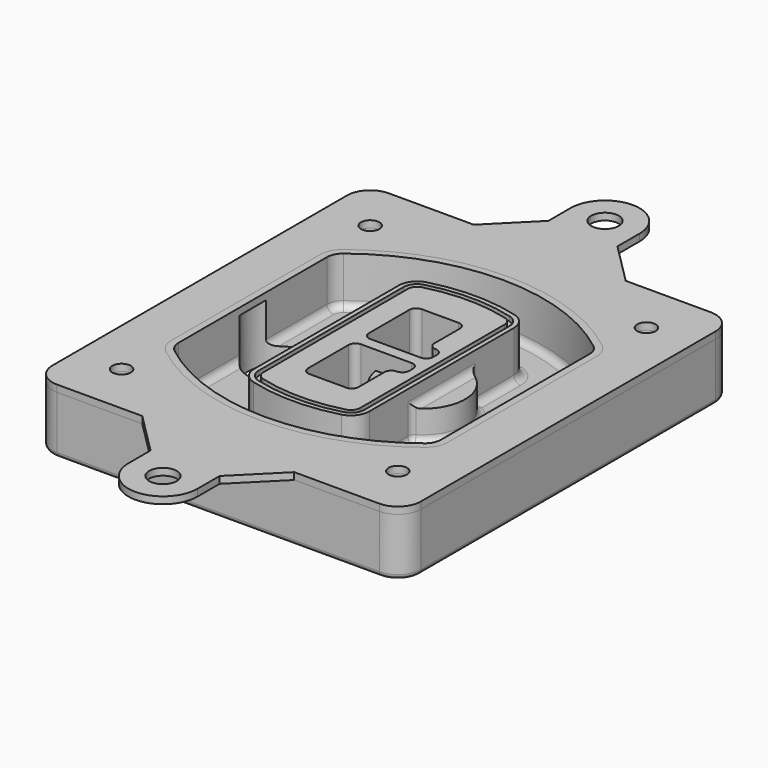
from build123d import *

# Parameters (mm, degrees)
F0_R      = 4
F1_DEPTH  = 25
F2_DEPTH  = 3
F3_DEPTH  = 18
F5_DEPTH  = 21
F6_DEPTH  = 2
F8_DEPTH  = 20
F9_DEPTH  = 16
F11_DEPTH = 9
F12_DEPTH = 25
F13_R     = 3
F14_R     = 2
F15_R     = 6
F15_R_2   = 4
F16_DEPTH = 3


with BuildPart() as f1:
    # F0 (on Top) → F1 (new body)
    with BuildSketch(Plane.XY):
        with BuildLine():
            ThreePointArc((-80, -80), (-77.0710678119, -87.0710678119), (-70, -90))
            Line((-70, -90), (70, -90))
            ThreePointArc((70, -90), (77.0710678119, -87.0710678119), (80, -80))
            Line((80, -80), (80, 80))
            ThreePointArc((80, 80), (77.0710678119, 87.0710678119), (70, 90))
            Line((70, 90), (-70, 90))
            ThreePointArc((-70, 90), (-77.0710678119, 87.0710678119), (-80, 80))
            Line((-80, 80), (-80, -80))
        make_face()
        with Locations((-60, -67.5)):
            Circle(F0_R, mode=Mode.SUBTRACT)
        with Locations((60, -67.5)):
            Circle(F0_R, mode=Mode.SUBTRACT)
        with Locations((-60, 67.5)):
            Circle(F0_R, mode=Mode.SUBTRACT)
        with BuildLine():
            ThreePointArc((-64, 40.2934422872), (-62.5820384798, 46.4328484224), (-58.6153846154, 51.3286200352))
            ThreePointArc((-58.6153846154, 51.3286200352), (0, 71.5), (58.6153846154, 51.3286200352))
            ThreePointArc((58.6153846154, 51.3286200352), (62.5820384798, 46.4328484224), (64, 40.2934422872))
            Line((64, 40.2934422872), (64, -40.2934422872))
            ThreePointArc((64, -40.2934422872), (62.5820384798, -46.4328484224), (58.6153846154, -51.3286200352))
            ThreePointArc((58.6153846154, -51.3286200352), (0, -71.5), (-58.6153846154, -51.3286200352))
            ThreePointArc((-58.6153846154, -51.3286200352), (-62.5820384798, -46.4328484224), (-64, -40.2934422872))
            Line((-64, -40.2934422872), (-64, 40.2934422872))
        make_face(mode=Mode.SUBTRACT)
        with Locations((60, 67.5)):
            Circle(F0_R, mode=Mode.SUBTRACT)
        with BuildLine():
            ThreePointArc((58.6153846154, 51.3286200352), (0, 71.5), (-58.6153846154, 51.3286200352))
            ThreePointArc((-58.6153846154, 51.3286200352), (-62.5820384798, 46.4328484224), (-64, 40.2934422872))
            Line((-64, 40.2934422872), (-64, -40.2934422872))
            ThreePointArc((-64, -40.2934422872), (-62.5820384798, -46.4328484224), (-58.6153846154, -51.3286200352))
            ThreePointArc((-58.6153846154, -51.3286200352), (0, -71.5), (58.6153846154, -51.3286200352))
            ThreePointArc((58.6153846154, -51.3286200352), (62.5820384798, -46.4328484224), (64, -40.2934422872))
            Line((64, -40.2934422872), (64, 40.2934422872))
            ThreePointArc((64, 40.2934422872), (62.5820384798, 46.4328484224), (58.6153846154, 51.3286200352))
        make_face()
        with BuildLine():
            Line((-60, -40.2934422872), (-60, 40.2934422872))
            ThreePointArc((-60, 40.2934422872), (-58.9871703427, 44.6787323838), (-56.1538461538, 48.1757121072))
            ThreePointArc((-56.1538461538, 48.1757121072), (0, 67.5), (56.1538461538, 48.1757121072))
            ThreePointArc((56.1538461538, 48.1757121072), (58.9871703427, 44.6787323838), (60, 40.2934422872))
            Line((60, 40.2934422872), (60, -40.2934422872))
            ThreePointArc((60, -40.2934422872), (58.9871703427, -44.6787323838), (56.1538461538, -48.1757121072))
            ThreePointArc((56.1538461538, -48.1757121072), (0, -67.5), (-56.1538461538, -48.1757121072))
            ThreePointArc((-56.1538461538, -48.1757121072), (-58.9871703427, -44.6787323838), (-60, -40.2934422872))
        make_face(mode=Mode.SUBTRACT)
        with BuildLine():
            ThreePointArc((-56.1538461538, 48.1757121072), (-58.9871703427, 44.6787323838), (-60, 40.2934422872))
            Line((-60, 40.2934422872), (-60, -40.2934422872))
            ThreePointArc((-60, -40.2934422872), (-58.9871703427, -44.6787323838), (-56.1538461538, -48.1757121072))
            ThreePointArc((-56.1538461538, -48.1757121072), (0, -67.5), (56.1538461538, -48.1757121072))
            ThreePointArc((56.1538461538, -48.1757121072), (58.9871703427, -44.6787323838), (60, -40.2934422872))
            Line((60, -40.2934422872), (60, 40.2934422872))
            ThreePointArc((60, 40.2934422872), (58.9871703427, 44.6787323838), (56.1538461538, 48.1757121072))
            ThreePointArc((56.1538461538, 48.1757121072), (0, 67.5), (-56.1538461538, 48.1757121072))
        make_face()
        with BuildLine():
            ThreePointArc((54.3076923077, 45.8110311612), (56.2910192399, 43.3631453548), (57, 40.2934422872))
            Line((57, 40.2934422872), (57, -40.2934422872))
            ThreePointArc((57, -40.2934422872), (56.2910192399, -43.3631453548), (54.3076923077, -45.8110311612))
            ThreePointArc((54.3076923077, -45.8110311612), (0, -64.5), (-54.3076923077, -45.8110311612))
            ThreePointArc((-54.3076923077, -45.8110311612), (-56.2910192399, -43.3631453548), (-57, -40.2934422872))
            Line((-57, -40.2934422872), (-57, 40.2934422872))
            ThreePointArc((-57, 40.2934422872), (-56.2910192399, 43.3631453548), (-54.3076923077, 45.8110311612))
            ThreePointArc((-54.3076923077, 45.8110311612), (0, 64.5), (54.3076923077, 45.8110311612))
        make_face(mode=Mode.SUBTRACT)
        with BuildLine():
            Line((57, -40.2934422872), (57, 40.2934422872))
            ThreePointArc((57, 40.2934422872), (56.2910192399, 43.3631453548), (54.3076923077, 45.8110311612))
            ThreePointArc((54.3076923077, 45.8110311612), (0, 64.5), (-54.3076923077, 45.8110311612))
            ThreePointArc((-54.3076923077, 45.8110311612), (-56.2910192399, 43.3631453548), (-57, 40.2934422872))
            Line((-57, 40.2934422872), (-57, -40.2934422872))
            ThreePointArc((-57, -40.2934422872), (-56.2910192399, -43.3631453548), (-54.3076923077, -45.8110311612))
            ThreePointArc((-54.3076923077, -45.8110311612), (0, -64.5), (54.3076923077, -45.8110311612))
            ThreePointArc((54.3076923077, -45.8110311612), (56.2910192399, -43.3631453548), (57, -40.2934422872))
        make_face()
    extrude(amount=-F1_DEPTH)

    # F0 (on Top) → F2 (join)
    with BuildSketch(Plane.XY):
        with BuildLine():
            ThreePointArc((-56.1538461538, 48.1757121072), (-58.9871703427, 44.6787323838), (-60, 40.2934422872))
            Line((-60, 40.2934422872), (-60, -40.2934422872))
            ThreePointArc((-60, -40.2934422872), (-58.9871703427, -44.6787323838), (-56.1538461538, -48.1757121072))
            ThreePointArc((-56.1538461538, -48.1757121072), (0, -67.5), (56.1538461538, -48.1757121072))
            ThreePointArc((56.1538461538, -48.1757121072), (58.9871703427, -44.6787323838), (60, -40.2934422872))
            Line((60, -40.2934422872), (60, 40.2934422872))
            ThreePointArc((60, 40.2934422872), (58.9871703427, 44.6787323838), (56.1538461538, 48.1757121072))
            ThreePointArc((56.1538461538, 48.1757121072), (0, 67.5), (-56.1538461538, 48.1757121072))
        make_face()
        with BuildLine():
            ThreePointArc((54.3076923077, 45.8110311612), (56.2910192399, 43.3631453548), (57, 40.2934422872))
            Line((57, 40.2934422872), (57, -40.2934422872))
            ThreePointArc((57, -40.2934422872), (56.2910192399, -43.3631453548), (54.3076923077, -45.8110311612))
            ThreePointArc((54.3076923077, -45.8110311612), (0, -64.5), (-54.3076923077, -45.8110311612))
            ThreePointArc((-54.3076923077, -45.8110311612), (-56.2910192399, -43.3631453548), (-57, -40.2934422872))
            Line((-57, -40.2934422872), (-57, 40.2934422872))
            ThreePointArc((-57, 40.2934422872), (-56.2910192399, 43.3631453548), (-54.3076923077, 45.8110311612))
            ThreePointArc((-54.3076923077, 45.8110311612), (0, 64.5), (54.3076923077, 45.8110311612))
        make_face(mode=Mode.SUBTRACT)
    extrude(amount=F2_DEPTH)

    # F0 (on Top) → F3 (cut)
    with BuildSketch(Plane.XY):
        with BuildLine():
            Line((57, -40.2934422872), (57, 40.2934422872))
            ThreePointArc((57, 40.2934422872), (56.2910192399, 43.3631453548), (54.3076923077, 45.8110311612))
            ThreePointArc((54.3076923077, 45.8110311612), (0, 64.5), (-54.3076923077, 45.8110311612))
            ThreePointArc((-54.3076923077, 45.8110311612), (-56.2910192399, 43.3631453548), (-57, 40.2934422872))
            Line((-57, 40.2934422872), (-57, -40.2934422872))
            ThreePointArc((-57, -40.2934422872), (-56.2910192399, -43.3631453548), (-54.3076923077, -45.8110311612))
            ThreePointArc((-54.3076923077, -45.8110311612), (0, -64.5), (54.3076923077, -45.8110311612))
            ThreePointArc((54.3076923077, -45.8110311612), (56.2910192399, -43.3631453548), (57, -40.2934422872))
        make_face()
    extrude(amount=-F3_DEPTH, mode=Mode.SUBTRACT)

    # F4 (on face) → F5 (join, through all)
    with BuildSketch(Plane.XY.offset(3)):
        with BuildLine():
            ThreePointArc((-25, -39.2465276821), (-23.3511545998, -44.1109737193), (-19.0842911877, -46.9702398883))
            ThreePointArc((-19.0842911877, -46.9702398883), (0, -49.5), (19.0842911877, -46.9702398883))
            ThreePointArc((19.0842911877, -46.9702398883), (23.3511545998, -44.1109737193), (25, -39.2465276821))
            Line((25, -39.2465276821), (25, 39.2465276821))
            ThreePointArc((25, 39.2465276821), (23.3511545998, 44.1109737193), (19.0842911877, 46.9702398883))
            ThreePointArc((19.0842911877, 46.9702398883), (0, 49.5), (-19.0842911877, 46.9702398883))
            ThreePointArc((-19.0842911877, 46.9702398883), (-23.3511545998, 44.1109737193), (-25, 39.2465276821))
            Line((-25, 39.2465276821), (-25, -39.2465276821))
        make_face()
        with BuildLine():
            ThreePointArc((18.5632183908, 45.0393118368), (21.7633659499, 42.89486221), (23, 39.2465276821))
            Line((23, 39.2465276821), (23, -39.2465276821))
            ThreePointArc((23, -39.2465276821), (21.7633659499, -42.89486221), (18.5632183908, -45.0393118368))
            ThreePointArc((18.5632183908, -45.0393118368), (0, -47.5), (-18.5632183908, -45.0393118368))
            ThreePointArc((-18.5632183908, -45.0393118368), (-21.7633659499, -42.89486221), (-23, -39.2465276821))
            Line((-23, -39.2465276821), (-23, 39.2465276821))
            ThreePointArc((-23, 39.2465276821), (-21.7633659499, 42.89486221), (-18.5632183908, 45.0393118368))
            ThreePointArc((-18.5632183908, 45.0393118368), (0, 47.5), (18.5632183908, 45.0393118368))
        make_face(mode=Mode.SUBTRACT)
        with BuildLine():
            Line((23, -39.2465276821), (23, 39.2465276821))
            ThreePointArc((23, 39.2465276821), (21.7633659499, 42.89486221), (18.5632183908, 45.0393118368))
            ThreePointArc((18.5632183908, 45.0393118368), (0, 47.5), (-18.5632183908, 45.0393118368))
            ThreePointArc((-18.5632183908, 45.0393118368), (-21.7633659499, 42.89486221), (-23, 39.2465276821))
            Line((-23, 39.2465276821), (-23, -39.2465276821))
            ThreePointArc((-23, -39.2465276821), (-21.7633659499, -42.89486221), (-18.5632183908, -45.0393118368))
            ThreePointArc((-18.5632183908, -45.0393118368), (0, -47.5), (18.5632183908, -45.0393118368))
            ThreePointArc((18.5632183908, -45.0393118368), (21.7633659499, -42.89486221), (23, -39.2465276821))
        make_face()
        with BuildLine():
            ThreePointArc((18.0421455939, 43.1083837852), (20.1755772999, 41.6787507007), (21, 39.2465276821))
            Line((21, 39.2465276821), (21, -39.2465276821))
            ThreePointArc((21, -39.2465276821), (20.1755772999, -41.6787507007), (18.0421455939, -43.1083837852))
            ThreePointArc((18.0421455939, -43.1083837852), (0, -45.5), (-18.0421455939, -43.1083837852))
            ThreePointArc((-18.0421455939, -43.1083837852), (-20.1755772999, -41.6787507007), (-21, -39.2465276821))
            Line((-21, -39.2465276821), (-21, 39.2465276821))
            ThreePointArc((-21, 39.2465276821), (-20.1755772999, 41.6787507007), (-18.0421455939, 43.1083837852))
            ThreePointArc((-18.0421455939, 43.1083837852), (0, 45.5), (18.0421455939, 43.1083837852))
        make_face(mode=Mode.SUBTRACT)
        with BuildLine():
            Line((21, -39.2465276821), (21, 39.2465276821))
            ThreePointArc((21, 39.2465276821), (20.1755772999, 41.6787507007), (18.0421455939, 43.1083837852))
            ThreePointArc((18.0421455939, 43.1083837852), (0, 45.5), (-18.0421455939, 43.1083837852))
            ThreePointArc((-18.0421455939, 43.1083837852), (-20.1755772999, 41.6787507007), (-21, 39.2465276821))
            Line((-21, 39.2465276821), (-21, -39.2465276821))
            ThreePointArc((-21, -39.2465276821), (-20.1755772999, -41.6787507007), (-18.0421455939, -43.1083837852))
            ThreePointArc((-18.0421455939, -43.1083837852), (0, -45.5), (18.0421455939, -43.1083837852))
            ThreePointArc((18.0421455939, -43.1083837852), (20.1755772999, -41.6787507007), (21, -39.2465276821))
        make_face()
        with BuildLine():
            Line((-8, -2.5), (14, -2.5))
            ThreePointArc((14, -2.5), (16.1213203436, -3.3786796564), (17, -5.5))
            Line((17, -5.5), (17, -7.5))
            ThreePointArc((17, -7.5), (16.1213203436, -9.6213203436), (14, -10.5))
            ThreePointArc((14, -10.5), (11.8786796564, -11.3786796564), (11, -13.5))
            Line((11, -13.5), (11, -27.5))
            ThreePointArc((11, -27.5), (10.1213203436, -29.6213203436), (8, -30.5))
            Line((8, -30.5), (-8, -30.5))
            ThreePointArc((-8, -30.5), (-10.1213203436, -29.6213203436), (-11, -27.5))
            Line((-11, -27.5), (-11, -5.5))
            ThreePointArc((-11, -5.5), (-10.1213203436, -3.3786796564), (-8, -2.5))
        make_face(mode=Mode.SUBTRACT)
        with BuildLine():
            ThreePointArc((-8, 2.5), (-10.1213203436, 3.3786796564), (-11, 5.5))
            Line((-11, 5.5), (-11, 27.5))
            ThreePointArc((-11, 27.5), (-10.1213203436, 29.6213203436), (-8, 30.5))
            Line((-8, 30.5), (8, 30.5))
            ThreePointArc((8, 30.5), (10.1213203436, 29.6213203436), (11, 27.5))
            Line((11, 27.5), (11, 13.5))
            ThreePointArc((11, 13.5), (11.8786796564, 11.3786796564), (14, 10.5))
            ThreePointArc((14, 10.5), (16.1213203436, 9.6213203436), (17, 7.5))
            Line((17, 7.5), (17, 5.5))
            ThreePointArc((17, 5.5), (16.1213203436, 3.3786796564), (14, 2.5))
            Line((14, 2.5), (-8, 2.5))
        make_face(mode=Mode.SUBTRACT)
    extrude(amount=-F5_DEPTH)

    # F4 (on face) → F6 (cut)
    with BuildSketch(Plane.XY.offset(3)):
        with BuildLine():
            Line((23, -39.2465276821), (23, 39.2465276821))
            ThreePointArc((23, 39.2465276821), (21.7633659499, 42.89486221), (18.5632183908, 45.0393118368))
            ThreePointArc((18.5632183908, 45.0393118368), (0, 47.5), (-18.5632183908, 45.0393118368))
            ThreePointArc((-18.5632183908, 45.0393118368), (-21.7633659499, 42.89486221), (-23, 39.2465276821))
            Line((-23, 39.2465276821), (-23, -39.2465276821))
            ThreePointArc((-23, -39.2465276821), (-21.7633659499, -42.89486221), (-18.5632183908, -45.0393118368))
            ThreePointArc((-18.5632183908, -45.0393118368), (0, -47.5), (18.5632183908, -45.0393118368))
            ThreePointArc((18.5632183908, -45.0393118368), (21.7633659499, -42.89486221), (23, -39.2465276821))
        make_face()
        with BuildLine():
            ThreePointArc((18.0421455939, 43.1083837852), (20.1755772999, 41.6787507007), (21, 39.2465276821))
            Line((21, 39.2465276821), (21, -39.2465276821))
            ThreePointArc((21, -39.2465276821), (20.1755772999, -41.6787507007), (18.0421455939, -43.1083837852))
            ThreePointArc((18.0421455939, -43.1083837852), (0, -45.5), (-18.0421455939, -43.1083837852))
            ThreePointArc((-18.0421455939, -43.1083837852), (-20.1755772999, -41.6787507007), (-21, -39.2465276821))
            Line((-21, -39.2465276821), (-21, 39.2465276821))
            ThreePointArc((-21, 39.2465276821), (-20.1755772999, 41.6787507007), (-18.0421455939, 43.1083837852))
            ThreePointArc((-18.0421455939, 43.1083837852), (0, 45.5), (18.0421455939, 43.1083837852))
        make_face(mode=Mode.SUBTRACT)
    extrude(amount=-F6_DEPTH, mode=Mode.SUBTRACT)

    # F7 (on face) → F8 (join)
    with BuildSketch(Plane(origin=(0, 0, -25), x_dir=(1, 0, 0), z_dir=(0, 0, -1))):
        with BuildLine():
            ThreePointArc((3.28842436, 0), (16.7567035675, 13.4682792075), (30.224982775, 0))
            Line((30.224982775, 0), (35.224982775, 0))
            ThreePointArc((35.224982775, 0), (16.7567035675, 18.4682792075), (-1.71157564, 0))
            Line((-1.71157564, 0), (3.28842436, 0))
        make_face()
        with BuildLine():
            Line((3.28842436, 0), (30.224982775, 0))
            ThreePointArc((30.224982775, 0), (16.7567035675, 13.4682792075), (3.28842436, 0))
        make_face()
        with BuildLine():
            ThreePointArc((3.28842436, 0), (16.7567035675, -13.4682792075), (30.224982775, 0))
            Line((30.224982775, 0), (3.28842436, 0))
        make_face()
        with BuildLine():
            Line((35.224982775, 0), (30.224982775, 0))
            ThreePointArc((30.224982775, 0), (16.7567035675, -13.4682792075), (3.28842436, 0))
            Line((3.28842436, 0), (-1.71157564, 0))
            ThreePointArc((-1.71157564, 0), (16.7567035675, -18.4682792075), (35.224982775, 0))
        make_face()
    extrude(amount=-F8_DEPTH)

    # F7 (on face) → F9 (cut)
    with BuildSketch(Plane(origin=(0, 0, -25), x_dir=(1, 0, 0), z_dir=(0, 0, -1))):
        with BuildLine():
            Line((3.28842436, 0), (30.224982775, 0))
            ThreePointArc((30.224982775, 0), (16.7567035675, 13.4682792075), (3.28842436, 0))
        make_face()
        with BuildLine():
            ThreePointArc((3.28842436, 0), (16.7567035675, -13.4682792075), (30.224982775, 0))
            Line((30.224982775, 0), (3.28842436, 0))
        make_face()
    extrude(amount=-F9_DEPTH, mode=Mode.SUBTRACT)

    # F10 (on face) → F11 (cut, through all)
    with BuildSketch(Plane(origin=(0, 0, -9), x_dir=(1, 0, 0), z_dir=(0, 0, -1))):
        with BuildLine():
            Line((11, 13.5), (11, 17.5481537753))
            ThreePointArc((11, 17.5481537753), (2.5696536419, 11.8239143813), (-1.5415842455, 2.5))
            Line((-1.5415842455, 2.5), (3.5224848595, 2.5))
            ThreePointArc((3.5224848595, 2.5), (6.1857188154, 8.3455872281), (11.2536447004, 12.2927168648))
            ThreePointArc((11.2536447004, 12.2927168648), (11.0640958889, 12.8831798879), (11, 13.5))
        make_face()
        with BuildLine():
            ThreePointArc((11.2536447004, -12.2927168648), (6.1857188154, -8.3455872281), (3.5224848595, -2.5))
            Line((3.5224848595, -2.5), (-1.5415842455, -2.5))
            ThreePointArc((-1.5415842455, -2.5), (2.5696536419, -11.8239143813), (11, -17.5481537753))
            Line((11, -17.5481537753), (11, -13.5))
            ThreePointArc((11, -13.5), (11.0640958889, -12.8831798879), (11.2536447004, -12.2927168648))
        make_face()
        with BuildLine():
            ThreePointArc((11.2536447004, 12.2927168648), (6.1857188154, 8.3455872281), (3.5224848595, 2.5))
            Line((3.5224848595, 2.5), (14, 2.5))
            ThreePointArc((14, 2.5), (16.1213203436, 3.3786796564), (17, 5.5))
            Line((17, 5.5), (17, 7.5))
            ThreePointArc((17, 7.5), (16.1213203436, 9.6213203436), (14, 10.5))
            ThreePointArc((14, 10.5), (12.3601599782, 10.9878446101), (11.2536447004, 12.2927168648))
        make_face()
        with BuildLine():
            Line((14, -2.5), (3.5224848595, -2.5))
            ThreePointArc((3.5224848595, -2.5), (6.1857188154, -8.3455872281), (11.2536447004, -12.2927168648))
            ThreePointArc((11.2536447004, -12.2927168648), (12.3601599782, -10.9878446101), (14, -10.5))
            ThreePointArc((14, -10.5), (16.1213203436, -9.6213203436), (17, -7.5))
            Line((17, -7.5), (17, -5.5))
            ThreePointArc((17, -5.5), (16.1213203436, -3.3786796564), (14, -2.5))
        make_face()
    extrude(amount=F11_DEPTH, mode=Mode.SUBTRACT)

    # F7 (on face) → F12 (cut)
    with BuildSketch(Plane(origin=(0, 0, -25), x_dir=(1, 0, 0), z_dir=(0, 0, -1))):
        with BuildLine():
            Line((-59.0318229325, 0), (-32.0952645175, 0))
            ThreePointArc((-32.0952645175, 0), (-45.563543725, 13.4682792075), (-59.0318229325, 0))
        make_face()
        with BuildLine():
            ThreePointArc((-59.0318229325, 0), (-45.563543725, -13.4682792075), (-32.0952645175, 0))
            Line((-32.0952645175, 0), (-59.0318229325, 0))
        make_face()
    extrude(amount=-F12_DEPTH, mode=Mode.SUBTRACT)

    # F13
    f13_edges = [f1.edges().sort_by_distance(p)[0] for p in [
        (-57, -23.703476, -18),
        (-57, 23.703476, -18),
        (25, 0, -5),
        (25, 16.526506, -11.5),
        (25, -16.526506, -11.5),
        (25, -27.886517, -18),
        (35.224983, 0, -18),
    ]]
    fillet(f13_edges, radius=F13_R)

    # F14
    f14_edges = [f1.edges().sort_by_distance(p)[0] for p in [
        (0, -90, -25),
    ]]
    fillet(f14_edges, radius=F14_R)


with BuildPart() as f16:
    # F15 (on face) → F16 (new body, through all)
    with BuildSketch(Plane.XY):
        with BuildLine():
            Line((-15, 108), (-33, 90))
            Line((-33, 90), (33, 90))
            Line((33, 90), (15, 108))
            Line((15, 108), (15, 120))
            ThreePointArc((15, 120), (0, 135), (-15, 120))
            Line((-15, 120), (-15, 108))
        make_face()
        with Locations((0, 120)):
            Circle(F15_R, mode=Mode.SUBTRACT)
        with BuildLine():
            Line((33, 90), (-33, 90))
            Line((-33, 90), (-70, 90))
            ThreePointArc((-70, 90), (-77.0710678119, 87.0710678119), (-80, 80))
            Line((-80, 80), (-80, -80))
            ThreePointArc((-80, -80), (-77.0710678119, -87.0710678119), (-70, -90))
            Line((-70, -90), (-33, -90))
            Line((-33, -90), (33, -90))
            Line((33, -90), (70, -90))
            ThreePointArc((70, -90), (77.0710678119, -87.0710678119), (80, -80))
            Line((80, -80), (80, 80))
            ThreePointArc((80, 80), (77.0710678119, 87.0710678119), (70, 90))
            Line((70, 90), (33, 90))
        make_face()
        with Locations((-60, -67.5)):
            Circle(F15_R_2, mode=Mode.SUBTRACT)
        with Locations((60, -67.5)):
            Circle(F15_R_2, mode=Mode.SUBTRACT)
        with Locations((-60, 67.5)):
            Circle(F15_R_2, mode=Mode.SUBTRACT)
        with BuildLine():
            ThreePointArc((-60, 40.2934422872), (-58.9871703427, 44.6787323838), (-56.1538461538, 48.1757121072))
            ThreePointArc((-56.1538461538, 48.1757121072), (0, 67.5), (56.1538461538, 48.1757121072))
            ThreePointArc((56.1538461538, 48.1757121072), (58.9871703427, 44.6787323838), (60, 40.2934422872))
            Line((60, 40.2934422872), (60, -40.2934422872))
            ThreePointArc((60, -40.2934422872), (58.9871703427, -44.6787323838), (56.1538461538, -48.1757121072))
            ThreePointArc((56.1538461538, -48.1757121072), (0, -67.5), (-56.1538461538, -48.1757121072))
            ThreePointArc((-56.1538461538, -48.1757121072), (-58.9871703427, -44.6787323838), (-60, -40.2934422872))
            Line((-60, -40.2934422872), (-60, 40.2934422872))
        make_face(mode=Mode.SUBTRACT)
        with Locations((60, 67.5)):
            Circle(F15_R_2, mode=Mode.SUBTRACT)
        with BuildLine():
            Line((33, -90), (-33, -90))
            Line((-33, -90), (-15, -108))
            Line((-15, -108), (-15, -120))
            ThreePointArc((-15, -120), (0, -135), (15, -120))
            Line((15, -120), (15, -108))
            Line((15, -108), (33, -90))
        make_face()
        with Locations((0, -120)):
            Circle(F15_R, mode=Mode.SUBTRACT)
    extrude(amount=F16_DEPTH)


solid = Compound([f1.part, f16.part])
